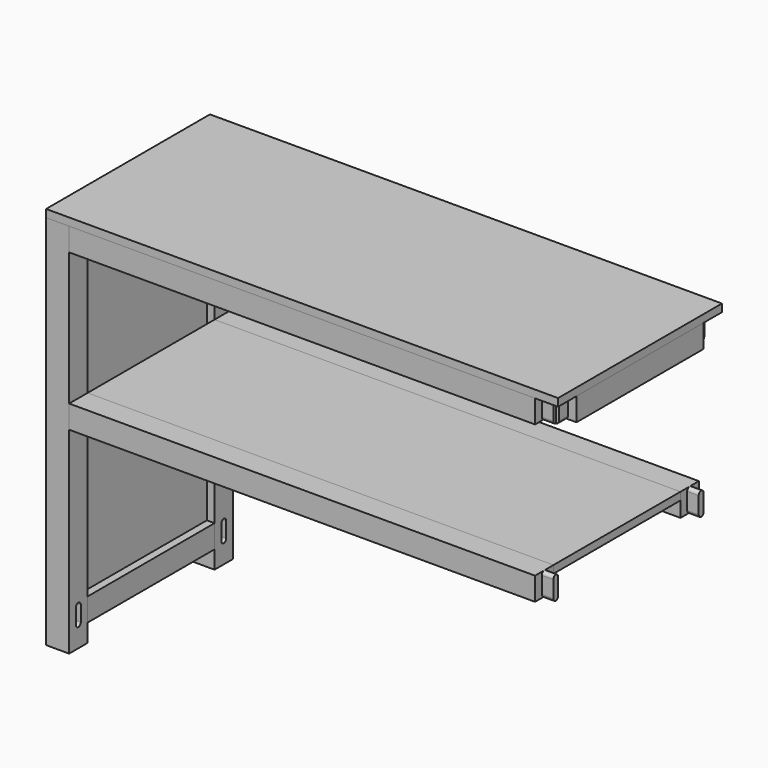
from build123d import *

# Parameters (mm, degrees)
SKETCH_W                 = 45
SKETCH_H                 = 45
PAD_DEPTH                = 735
POCKET005_DEPTH          = 15
POCKET006_DEPTH          = 15
CLONE_PLACEMENT_ANGLE    = 180
SKETCH003_W              = 15
SKETCH003_H              = 310
PAD002_DEPTH             = 610
SKETCH022_R              = 4
POCKET011_DEPTH          = 20
SKETCH023_R              = 4
POCKET012_DEPTH          = 20
CLONE004_PLACEMENT_ANGLE = 180
SKETCH002_W              = 45
SKETCH002_H              = 45
PAD001_DEPTH             = 177.5
SKETCH007_W              = 16.5
SKETCH007_H              = 22.5
POCKET_DEPTH             = 45.001
FILLET_R                 = 5.9999
SKETCH025_R              = 4
POCKET014_DEPTH          = 45.001
CLONE005_PLACEMENT_ANGLE = 180
CLONE003_PLACEMENT_ANGLE = 180
CLONE006_PLACEMENT_ANGLE = 180
SKETCH005_W              = 1000
SKETCH005_H              = 400
PAD004_DEPTH             = 15
SKETCH006_W              = 910
SKETCH006_H              = 310
PAD005_DEPTH             = 15
SKETCH020_R              = 4
POCKET009_DEPTH          = 20
SKETCH021_R              = 4
POCKET010_DEPTH          = 20
SKETCH004_W              = 45
SKETCH004_H              = 45
PAD003_DEPTH             = 477.5
SKETCH008_W              = 16.5
SKETCH008_H              = 22.5
POCKET001_DEPTH          = 45.001
FILLET001_R              = 5.9999
SKETCH026_R              = 4
POCKET015_DEPTH          = 20
CLONE013_PLACEMENT_ANGLE = 180
SKETCH017_W              = 45
SKETCH017_H              = 45
PAD010_DEPTH             = 735
POCKET007_DEPTH          = 15
POCKET008_DEPTH          = 15
CLONE020_PLACEMENT_ANGLE = 180
SKETCH027_W              = 45
SKETCH027_H              = 45
PAD011_DEPTH             = 477.5
SKETCH028_W              = 16.5
SKETCH028_H              = 22.5
POCKET016_DEPTH          = 45.001
FILLET002_R              = 5.9999
SKETCH030_R              = 4
POCKET018_DEPTH          = 20
BODY033_PLACEMENT_ANGLE  = 180


with BuildPart() as obj1:
    # Sketch → Pad (new body)
    with BuildSketch(Plane(origin=(477.5, 177.5, 0), x_dir=(1, 0, 0), z_dir=(0, 0, 1))):
        Rectangle(SKETCH_W, SKETCH_H)
    extrude(amount=PAD_DEPTH)

    # Sketch009 (on Face3 of Pad) → Pocket005 (cut)
    with BuildSketch(Plane.XZ.offset(-155)):
        with BuildLine():
            ThreePointArc((483.5, 727.5), (477.5, 733.5), (471.5, 727.5))
            Line((471.5, 727.5), (471.5, 697.5))
            ThreePointArc((471.5, 697.5), (477.5, 691.5), (483.5, 697.5))
            Line((483.5, 697.5), (483.5, 727.5))
        make_face()
        with BuildLine():
            ThreePointArc((483.5, 72.5), (477.5, 78.5), (471.5, 72.5))
            Line((471.5, 72.5), (471.5, 42.5))
            ThreePointArc((471.5, 42.5), (477.5, 36.5), (483.5, 42.5))
            Line((483.5, 42.5), (483.5, 72.5))
        make_face()
    extrude(amount=-POCKET005_DEPTH, mode=Mode.SUBTRACT)

    # Sketch016 (on Face2 of Pocket005) → Pocket006 (cut)
    with BuildSketch(Plane(origin=(455, 0, 0), x_dir=(0, -1, 0), z_dir=(-1, 0, 0))):
        with BuildLine():
            ThreePointArc((-171.5, 727.5), (-177.5, 733.5), (-183.5, 727.5))
            Line((-183.5, 727.5), (-183.5, 697.5))
            ThreePointArc((-183.5, 697.5), (-177.5, 691.5), (-171.5, 697.5))
            Line((-171.5, 697.5), (-171.5, 727.5))
        make_face()
        with BuildLine():
            ThreePointArc((-171.5, 72.5), (-177.5, 78.5), (-183.5, 72.5))
            Line((-183.5, 72.5), (-183.5, 42.5))
            ThreePointArc((-183.5, 42.5), (-177.5, 36.5), (-171.5, 42.5))
            Line((-171.5, 42.5), (-171.5, 72.5))
        make_face()
        with BuildLine():
            ThreePointArc((-171.5, 422.5), (-177.5, 428.5), (-183.5, 422.5))
            Line((-183.5, 422.5), (-183.5, 392.5))
            ThreePointArc((-183.5, 392.5), (-177.5, 386.5), (-171.5, 392.5))
            Line((-171.5, 392.5), (-171.5, 422.5))
        make_face()
    extrude(amount=-POCKET006_DEPTH, mode=Mode.SUBTRACT)


with BuildPart() as obj1_1:
    # Clone placement: moved
    add(obj1.part.rotate(Axis((0, 0, 0), (0, 0, 1)), CLONE_PLACEMENT_ANGLE))


with BuildPart() as side_panel02:
    # Sketch003 → Pad002 (new body)
    with BuildSketch(Plane(origin=(477.5, 0, 80), x_dir=(1, 0, 0), z_dir=(0, 0, 1))):
        Rectangle(SKETCH003_W, SKETCH003_H)
    extrude(amount=PAD002_DEPTH)

    # Sketch022 (on Face6 of Pad002) → Pocket011 (cut)
    with BuildSketch(Plane.XY.offset(690)):
        with Locations((477.5, 100)):
            Circle(SKETCH022_R)
        with Locations((477.5, 0)):
            Circle(SKETCH022_R)
        with Locations((477.5, -100)):
            Circle(SKETCH022_R)
    extrude(amount=-POCKET011_DEPTH, mode=Mode.SUBTRACT)

    # Sketch023 (on Face4 of Pocket011) → Pocket012 (cut)
    with BuildSketch(Plane(origin=(0, 0, 80), x_dir=(1, 0, 0), z_dir=(0, 0, -1))):
        with Locations((477.5, 100)):
            Circle(SKETCH023_R)
        with Locations((477.5, 0)):
            Circle(SKETCH023_R)
        with Locations((477.5, -100)):
            Circle(SKETCH023_R)
    extrude(amount=-POCKET012_DEPTH, mode=Mode.SUBTRACT)


with BuildPart() as side_panel02_1:
    # Clone004 placement: moved
    add(side_panel02.part.rotate(Axis((0, 0, 0), (0, 0, 1)), CLONE004_PLACEMENT_ANGLE))


with BuildPart() as short01:
    # Sketch002 → Pad001 (new body, symmetric)
    with BuildSketch(Plane(origin=(477.5, 0, 57.5), x_dir=(1, 0, 0), z_dir=(0, -1, 0))):
        Rectangle(SKETCH002_W, SKETCH002_H)
    extrude(amount=PAD001_DEPTH, both=True)

    # Sketch007 (on Face1 of Pad001) → Pocket (cut, through all)
    with BuildSketch(Plane(origin=(0, 0, 80), x_dir=(-1, 0, 0), z_dir=(0, 0, 1))):
        with Locations((-463.25, 166.25)):
            Rectangle(SKETCH007_W, SKETCH007_H)
        with Locations((-463.25, -166.25)):
            Rectangle(SKETCH007_W, SKETCH007_H)
        with Locations((-491.75, 166.25)):
            Rectangle(SKETCH007_W, SKETCH007_H)
        with Locations((-491.75, -166.25)):
            Rectangle(SKETCH007_W, SKETCH007_H)
    extrude(amount=-POCKET_DEPTH, mode=Mode.SUBTRACT)

    # Fillet
    fillet_edges = [short01.edges().sort_by_distance(p)[0] for p in [
        (483.5, -166.25, 80),
        (483.5, -166.25, 35),
        (471.5, -166.25, 35),
        (471.5, -166.25, 80),
        (471.5, 166.25, 80),
        (471.5, 166.25, 35),
        (483.5, 166.25, 80),
        (483.5, 166.25, 35),
    ]]
    fillet(fillet_edges, radius=FILLET_R)

    # Sketch025 (on Face1 of Fillet) → Pocket014 (cut, through all)
    with BuildSketch(Plane(origin=(0, 0, 80), x_dir=(-1, 0, 0), z_dir=(0, 0, 1))):
        with Locations((-477.5, 100)):
            Circle(SKETCH025_R)
        with Locations((-477.5, -100)):
            Circle(SKETCH025_R)
        with Locations((-477.5, 0)):
            Circle(SKETCH025_R)
    extrude(amount=-POCKET014_DEPTH, mode=Mode.SUBTRACT)


with BuildPart() as short03:
    # Body008 base: copy of short01
    add(short01.part)


with BuildPart() as short03_1:
    # Clone005 placement: moved
    add(short03.part.rotate(Axis((0, 0, 0), (0, 0, 1)), CLONE005_PLACEMENT_ANGLE))


with BuildPart() as short04:
    # Body006 base: copy of short01
    add(short01.part)


with BuildPart() as short04_1:
    # Clone003 placement: moved
    add(short04.part.moved(Location((0, 0, 770))).rotate(Axis((0, 0, 770), (0, 1, 0)), CLONE003_PLACEMENT_ANGLE))


with BuildPart() as short04_2:
    # Clone006 placement: moved
    add(short04_1.part.rotate(Axis((0, 0, 0), (0, 0, 1)), CLONE006_PLACEMENT_ANGLE))


with BuildPart() as top:
    # Sketch005 → Pad004 (new body)
    with BuildSketch(Plane.XY.offset(735)):
        Rectangle(SKETCH005_W, SKETCH005_H)
    extrude(amount=PAD004_DEPTH)


with BuildPart() as inner_top02:
    # Sketch006 → Pad005 (new body)
    with BuildSketch(Plane.XY.offset(65)):
        Rectangle(SKETCH006_W, SKETCH006_H)
    extrude(amount=PAD005_DEPTH)

    # Sketch020 (on Face3 of Pad005) → Pocket009 (cut)
    with BuildSketch(Plane.XZ.offset(155)):
        with Locations((-227.5, 72.5)):
            Circle(SKETCH020_R)
        with Locations((227.5, 72.5)):
            Circle(SKETCH020_R)
        with Locations((0, 72.5)):
            Circle(SKETCH020_R)
    extrude(amount=-POCKET009_DEPTH, mode=Mode.SUBTRACT)

    # Sketch021 (on Face1 of Pocket009) → Pocket010 (cut)
    with BuildSketch(Plane(origin=(0, 155, 0), x_dir=(-1, 0, 0), z_dir=(0, 1, 0))):
        with Locations((0, 72.5)):
            Circle(SKETCH021_R)
        with Locations((-227.5, 72.5)):
            Circle(SKETCH021_R)
        with Locations((227.5, 72.5)):
            Circle(SKETCH021_R)
    extrude(amount=-POCKET010_DEPTH, mode=Mode.SUBTRACT)


with BuildPart() as inner_top02_1:
    # Clone012 placement: moved
    add(inner_top02.part.moved(Location((0, 0, 350))))


with BuildPart() as body:
    # Sketch004 → Pad003 (new body, symmetric)
    with BuildSketch(Plane(origin=(0, 177.5, 57.5), x_dir=(0, 1, 0), z_dir=(1, 0, 0))):
        Rectangle(SKETCH004_W, SKETCH004_H)
    extrude(amount=PAD003_DEPTH, both=True)

    # Sketch008 (on Face1 of Pad003) → Pocket001 (cut, through all)
    with BuildSketch(Plane(origin=(0, 0, 80), x_dir=(0, -1, 0), z_dir=(0, 0, 1))):
        with Locations((-163.25, 466.25)):
            Rectangle(SKETCH008_W, SKETCH008_H)
        with Locations((-163.25, -466.25)):
            Rectangle(SKETCH008_W, SKETCH008_H)
        with Locations((-191.75, 466.25)):
            Rectangle(SKETCH008_W, SKETCH008_H)
        with Locations((-191.75, -466.25)):
            Rectangle(SKETCH008_W, SKETCH008_H)
    extrude(amount=-POCKET001_DEPTH, mode=Mode.SUBTRACT)

    # Fillet001
    fillet001_edges = [body.edges().sort_by_distance(p)[0] for p in [
        (466.25, 171.5, 80),
        (466.25, 183.5, 80),
        (-466.25, 171.5, 80),
        (-466.25, 183.5, 80),
        (466.25, 183.5, 35),
        (466.25, 171.5, 35),
        (-466.25, 183.5, 35),
        (-466.25, 171.5, 35),
    ]]
    fillet(fillet001_edges, radius=FILLET001_R)

    # Sketch026 (on Face7 of Fillet001) → Pocket015 (cut)
    with BuildSketch(Plane(origin=(0, 155, 0), x_dir=(0, 0, -1), z_dir=(0, -1, 0))):
        with Locations((-72.5, 0)):
            Circle(SKETCH026_R)
        with Locations((-72.5, -227.5)):
            Circle(SKETCH026_R)
        with Locations((-72.5, 227.5)):
            Circle(SKETCH026_R)
    extrude(amount=-POCKET015_DEPTH, mode=Mode.SUBTRACT)


with BuildPart() as body020:
    # Body020 base: copy of Body
    add(body.part)


with BuildPart() as body020_1:
    # Clone014 placement: moved
    add(body020.part.moved(Location((0, 0, 350))))


with BuildPart() as body021:
    # Body019 base: copy of Body
    add(body.part)


with BuildPart() as body021_1:
    # Clone013 placement: moved
    add(body021.part.rotate(Axis((0, 0, 0), (0, 0, 1)), CLONE013_PLACEMENT_ANGLE))


with BuildPart() as body021_2:
    # Clone015 placement: moved
    add(body021_1.part.moved(Location((0, 0, 350))))


with BuildPart() as obj2:
    # Sketch017 → Pad010 (new body)
    with BuildSketch(Plane(origin=(477.5, -177.5, 0), x_dir=(1, 0, 0), z_dir=(0, 0, 1))):
        Rectangle(SKETCH017_W, SKETCH017_H)
    extrude(amount=PAD010_DEPTH)

    # Sketch018 (on Face1 of Pad010) → Pocket007 (cut)
    with BuildSketch(Plane(origin=(0, -155, 0), x_dir=(-1, 0, 0), z_dir=(0, 1, 0))):
        with BuildLine():
            ThreePointArc((-471.5, 72.5), (-477.5, 78.5), (-483.5, 72.5))
            Line((-483.5, 72.5), (-483.5, 42.5))
            ThreePointArc((-483.5, 42.5), (-477.5, 36.5), (-471.5, 42.5))
            Line((-471.5, 42.5), (-471.5, 72.5))
        make_face()
        with BuildLine():
            ThreePointArc((-471.5, 727.5), (-477.5, 733.5), (-483.5, 727.5))
            Line((-483.5, 727.5), (-483.5, 697.5))
            ThreePointArc((-483.5, 697.5), (-477.5, 691.5), (-471.5, 697.5))
            Line((-471.5, 697.5), (-471.5, 727.5))
        make_face()
    extrude(amount=-POCKET007_DEPTH, mode=Mode.SUBTRACT)

    # Sketch019 (on Face2 of Pocket007) → Pocket008 (cut)
    with BuildSketch(Plane(origin=(455, 0, 0), x_dir=(0, -1, 0), z_dir=(-1, 0, 0))):
        with BuildLine():
            ThreePointArc((183.5, 727.5), (177.5, 733.5), (171.5, 727.5))
            Line((171.5, 727.5), (171.5, 697.5))
            ThreePointArc((171.5, 697.5), (177.5, 691.5), (183.5, 697.5))
            Line((183.5, 697.5), (183.5, 727.5))
        make_face()
        with BuildLine():
            ThreePointArc((183.5, 422.5), (177.5, 428.5), (171.5, 422.5))
            Line((171.5, 422.5), (171.5, 392.5))
            ThreePointArc((171.5, 392.5), (177.5, 386.5), (183.5, 392.5))
            Line((183.5, 392.5), (183.5, 422.5))
        make_face()
        with BuildLine():
            ThreePointArc((183.5, 72.5), (177.5, 78.5), (171.5, 72.5))
            Line((171.5, 72.5), (171.5, 42.5))
            ThreePointArc((171.5, 42.5), (177.5, 36.5), (183.5, 42.5))
            Line((183.5, 42.5), (183.5, 72.5))
        make_face()
    extrude(amount=-POCKET008_DEPTH, mode=Mode.SUBTRACT)


with BuildPart() as obj2_1:
    # Clone020 placement: moved
    add(obj2.part.rotate(Axis((0, 0, 0), (0, 0, 1)), CLONE020_PLACEMENT_ANGLE))


with BuildPart() as body033:
    # Sketch027 → Pad011 (new body, symmetric)
    with BuildSketch(Plane(origin=(0, 177.5, 57.5), x_dir=(0, 1, 0), z_dir=(1, 0, 0))):
        Rectangle(SKETCH027_W, SKETCH027_H)
    extrude(amount=PAD011_DEPTH, both=True)

    # Sketch028 (on Face1 of Pad011) → Pocket016 (cut, through all)
    with BuildSketch(Plane(origin=(0, 0, 80), x_dir=(0, -1, 0), z_dir=(0, 0, 1))):
        with Locations((-163.25, 466.25)):
            Rectangle(SKETCH028_W, SKETCH028_H)
        with Locations((-163.25, -466.25)):
            Rectangle(SKETCH028_W, SKETCH028_H)
        with Locations((-191.75, 466.25)):
            Rectangle(SKETCH028_W, SKETCH028_H)
        with Locations((-191.75, -466.25)):
            Rectangle(SKETCH028_W, SKETCH028_H)
    extrude(amount=-POCKET016_DEPTH, mode=Mode.SUBTRACT)

    # Fillet002
    fillet002_edges = [body033.edges().sort_by_distance(p)[0] for p in [
        (466.25, 171.5, 80),
        (466.25, 183.5, 80),
        (-466.25, 171.5, 80),
        (-466.25, 183.5, 80),
        (466.25, 183.5, 35),
        (466.25, 171.5, 35),
        (-466.25, 183.5, 35),
        (-466.25, 171.5, 35),
    ]]
    fillet(fillet002_edges, radius=FILLET002_R)

    # Sketch030 → Pocket018 (cut)
    with BuildSketch(Plane(origin=(0, 0, 230), x_dir=(0, -1, 0), z_dir=(0, 0, 1))):
        with Locations((-177.5, 0)):
            Circle(SKETCH030_R)
        with Locations((-177.5, 100)):
            Circle(SKETCH030_R)
        with Locations((-177.5, -100)):
            Circle(SKETCH030_R)
    extrude(amount=-POCKET018_DEPTH, mode=Mode.SUBTRACT)


with BuildPart() as body033_1:
    # Body032 placement: moved
    add(body033.part.moved(Location((0, 0, 655))))


with BuildPart() as body033_2:
    # Body033 placement: moved
    add(body033_1.part.rotate(Axis((0, 0, 0), (0, 0, 1)), BODY033_PLACEMENT_ANGLE))


solid = Compound([obj1_1.part, side_panel02_1.part, short03_1.part, short04_2.part, top.part, inner_top02_1.part, body020_1.part, body021_2.part, obj2_1.part, body033_2.part])
